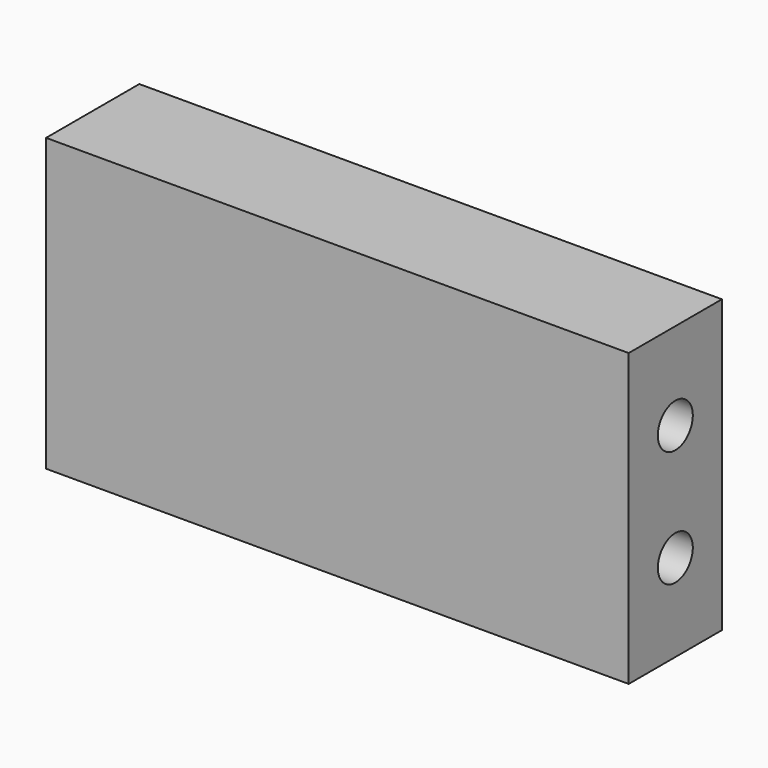
from build123d import *

# Parameters (mm, degrees)
F0_W     = 40
F0_H     = 20
F1_DEPTH = 8
F2_R     = 1.5
F3_DEPTH = 40.001


with BuildPart() as f1:
    # F0 (on Front) → F1 (new body)
    with BuildSketch(Plane.XZ):
        Rectangle(F0_W, F0_H)
    extrude(amount=F1_DEPTH)

    # F2 (on face) → F3 (cut, through all)
    with BuildSketch(Plane(origin=(-20, 0, 0), x_dir=(0, -1, 0), z_dir=(-1, 0, 0))):
        with Locations((4, 4)):
            Circle(F2_R)
        with Locations((4, -4)):
            Circle(F2_R)
    extrude(amount=-F3_DEPTH, mode=Mode.SUBTRACT)


solid = f1.part
